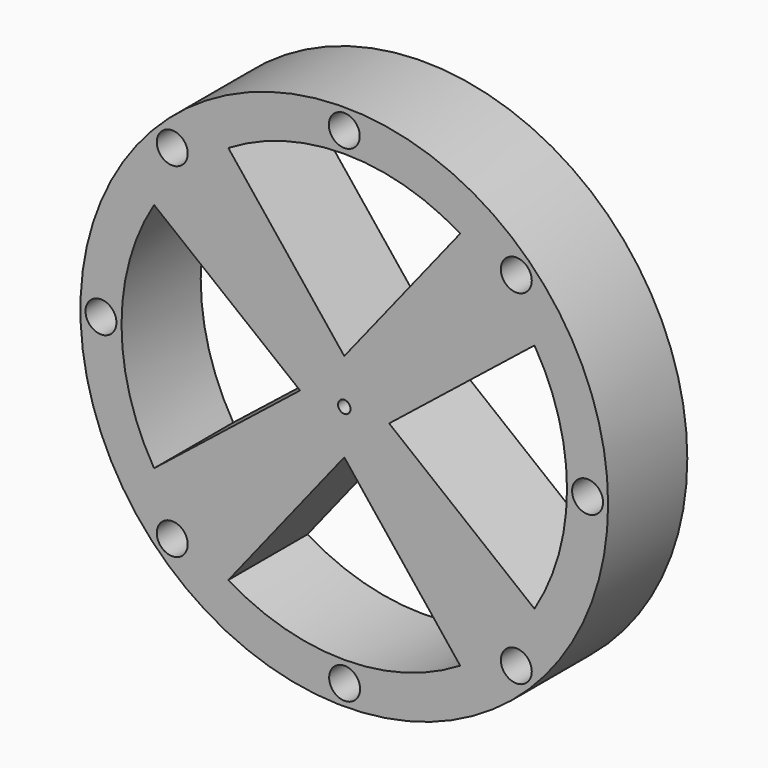
from build123d import *

# Parameters (mm, degrees)
F0_R     = 67.691
F0_R_2   = 3.96875
F0_R_3   = 1.6002
F1_DEPTH = 25.4


with BuildPart() as f1:
    # F0 (on Front) → F1 (new body)
    with BuildSketch(Plane.XZ):
        Circle(F0_R)
        with Locations((-44.1379588351, -44.1379588351)):
            Circle(F0_R_2, mode=Mode.SUBTRACT)
        with Locations((0.085850288, -62.4204405388)):
            Circle(F0_R_2, mode=Mode.SUBTRACT)
        with Locations((44.1379588351, -44.1379588351)):
            Circle(F0_R_2, mode=Mode.SUBTRACT)
        with BuildLine():
            ThreePointArc((-48.797581084, -29.747581084), (-57.15, 0), (-48.797581084, 29.747581084))
            ThreePointArc((-48.797581084, 29.747581084), (-40.4111525448, 40.4111525448), (-29.747581084, 48.797581084))
            ThreePointArc((-29.747581084, 48.797581084), (0, 57.15), (29.747581084, 48.797581084))
            ThreePointArc((29.747581084, 48.797581084), (40.4111525448, 40.4111525448), (48.797581084, 29.747581084))
            ThreePointArc((48.797581084, 29.747581084), (55.0222875704, 15.4489601762), (57.15, 0))
            ThreePointArc((57.15, 0), (55.0222875704, -15.4489601762), (48.797581084, -29.747581084))
            ThreePointArc((48.797581084, -29.747581084), (40.4111525448, -40.4111525448), (29.747581084, -48.797581084))
            ThreePointArc((29.747581084, -48.797581084), (0, -57.15), (-29.747581084, -48.797581084))
            ThreePointArc((-29.747581084, -48.797581084), (-40.4111525448, -40.4111525448), (-48.797581084, -29.747581084))
        make_face(mode=Mode.SUBTRACT)
        with Locations((-62.4204890377, 0.0179510779)):
            Circle(F0_R_2, mode=Mode.SUBTRACT)
        with Locations((-44.1379588351, 44.1379588351)):
            Circle(F0_R_2, mode=Mode.SUBTRACT)
        with Locations((62.420497432, 0.0178410081)):
            Circle(F0_R_2, mode=Mode.SUBTRACT)
        with Locations((0, 62.4205)):
            Circle(F0_R_2, mode=Mode.SUBTRACT)
        with Locations((44.1379588351, 44.1379588351)):
            Circle(F0_R_2, mode=Mode.SUBTRACT)
        with BuildLine():
            ThreePointArc((-29.747581084, 48.797581084), (-40.4111525448, 40.4111525448), (-48.797581084, 29.747581084))
            Line((-48.797581084, 29.747581084), (-11.3440947012, 0.0002201395))
            Line((-11.3440947012, 0.0002201395), (-48.797581084, -29.747581084))
            ThreePointArc((-48.797581084, -29.747581084), (-40.4111525448, -40.4111525448), (-29.747581084, -48.797581084))
            Line((-29.747581084, -48.797581084), (0, -11.3939955701))
            Line((0, -11.3939955701), (29.747581084, -48.797581084))
            ThreePointArc((29.747581084, -48.797581084), (40.4111525448, -40.4111525448), (48.797581084, -29.747581084))
            Line((48.797581084, -29.747581084), (11.515794592, 0))
            Line((11.515794592, 0), (48.797581084, 29.747581084))
            ThreePointArc((48.797581084, 29.747581084), (40.4111525448, 40.4111525448), (29.747581084, 48.797581084))
            Line((29.747581084, 48.797581084), (0, 11.4653596026))
            Line((0, 11.4653596026), (-29.747581084, 48.797581084))
        make_face()
        Circle(F0_R_3, mode=Mode.SUBTRACT)
    extrude(amount=F1_DEPTH)


solid = f1.part
